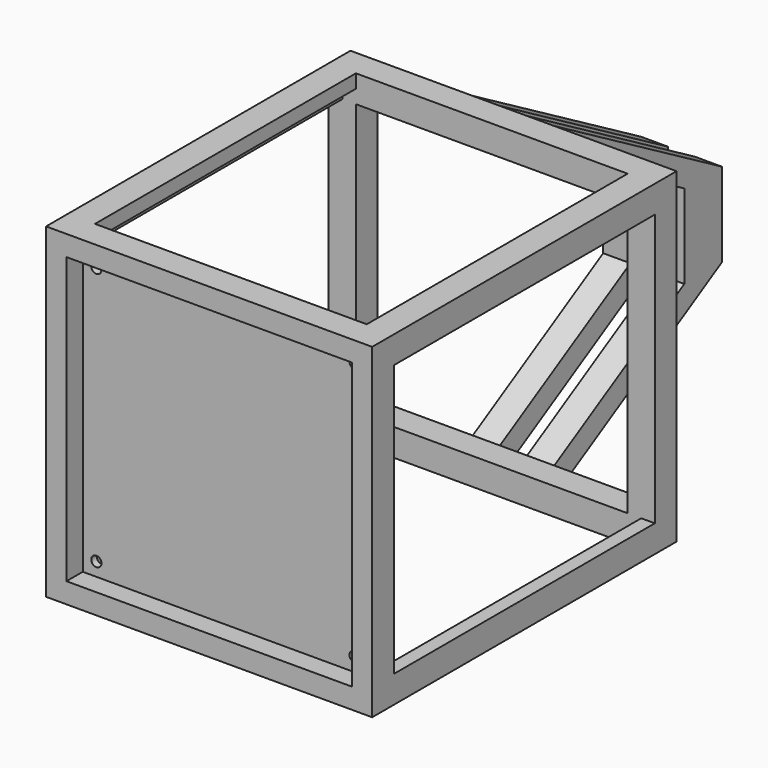
from build123d import *

# Parameters (mm, degrees)
F0_W      = 304.8
F0_H      = 355.6
F1_DEPTH  = 304.8
F2_W      = 254
F2_H      = 304.8
F3_DEPTH  = 304.801
F4_W      = 304.8
F4_H      = 254
F5_DEPTH  = 304.801
F6_W      = 254
F6_H      = 254
F7_DEPTH  = 25.4
F8_W      = 266.7
F8_H      = 266.7
F9_DEPTH  = 19.05
F10_W     = 279.4
F10_H     = 279.4
F11_DEPTH = 304.8
F12_R     = 4.7625
F13_DEPTH = 6.35
F16_DEPTH = 12.7
F19_DEPTH = 12.7
F20_R     = 8.526581
F21_DEPTH = 25.4


with BuildPart() as f1:
    # F0 (on Top) → F1 (new body)
    with BuildSketch(Plane.XY):
        with Locations((152.4, 177.8)):
            Rectangle(F0_W, F0_H)
    extrude(amount=F1_DEPTH)

    # F2 (on face) → F3 (cut, through all)
    with BuildSketch(Plane.XY.offset(304.8)):
        with Locations((152.4, 177.8)):
            Rectangle(F2_W, F2_H)
    extrude(amount=-F3_DEPTH, mode=Mode.SUBTRACT)

    # F4 (on face) → F5 (cut, through all)
    with BuildSketch(Plane.YZ.offset(304.8)):
        with Locations((177.8, 152.4)):
            Rectangle(F4_W, F4_H)
    extrude(amount=-F5_DEPTH, mode=Mode.SUBTRACT)

    # F6 (on face) → F7 (cut)
    with BuildSketch(Plane(origin=(0, 355.6, 0), x_dir=(-1, 0, 0), z_dir=(0, 1, 0))):
        with Locations((-152.4, 152.4)):
            Rectangle(F6_W, F6_H)
    extrude(amount=-F7_DEPTH, mode=Mode.SUBTRACT)

    # F8 (on face) → F9 (cut)
    with BuildSketch(Plane.XZ):
        with Locations((152.4, 152.4)):
            Rectangle(F8_W, F8_H)
    extrude(amount=-F9_DEPTH, mode=Mode.SUBTRACT)

    # F10 (on face) → F11 (cut)
    with BuildSketch(Plane(origin=(0, 25.4, 0), x_dir=(-1, 0, 0), z_dir=(0, 1, 0))):
        with Locations((-152.4, 152.4)):
            Rectangle(F10_W, F10_H)
    extrude(amount=F11_DEPTH, mode=Mode.SUBTRACT)

    # F12 (on face) → F13 (cut)
    with BuildSketch(Plane.XZ.offset(-19.05)):
        with Locations((31.75, 273.05)):
            Circle(F12_R)
        with Locations((273.05, 273.05)):
            Circle(F12_R)
        with Locations((273.05, 31.75)):
            Circle(F12_R)
        with Locations((31.75, 31.75)):
            Circle(F12_R)
    extrude(amount=-F13_DEPTH, mode=Mode.SUBTRACT)

    # F15 (on offset) → F16 (join, symmetric)
    with BuildSketch(Plane.YZ.offset(127)):
        Polygon((355.6, 25.4), (355.6, 0), (551.994091, 113.388181), (551.994091, 191.411819), (355.6, 304.8), (355.6, 279.4), (508, 191.411819), (508, 113.388181), align=None)
    extrude(amount=F16_DEPTH, both=True)

    # F18 (on offset) → F19 (join, symmetric)
    with BuildSketch(Plane.YZ.offset(177.8)):
        Polygon((355.6, 25.4), (355.6, 0), (551.470828, 113.086075), (551.470828, 191.713925), (355.6, 304.8), (355.6, 279.4), (507.476737, 191.713925), (507.476737, 113.086075), align=None)
    extrude(amount=F19_DEPTH, both=True)

    # F20 (on face) → F21 (join)
    with BuildSketch(Plane(origin=(165.1, 0, 0), x_dir=(0, -1, 0), z_dir=(-1, 0, 0))):
        with Locations((-528.486431, 152.795911)):
            Circle(F20_R)
    extrude(amount=F21_DEPTH)


solid = f1.part
